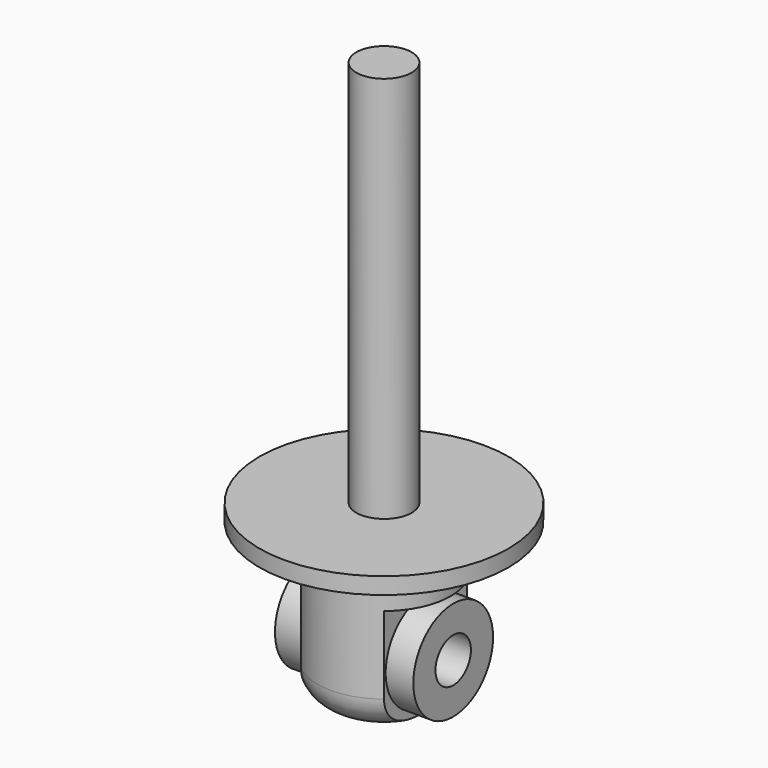
from build123d import *

# Parameters (mm, degrees)
F0_R      = 22.5
F1_DEPTH  = 3
F2_R      = 5
F3_DEPTH  = 70
F4_R      = 12
F5_DEPTH  = 28
F6_R      = 6
F7_W      = 19.57
F7_H      = 20
F8_DEPTH  = 50
F9_R      = 4
F10_DEPTH = 30.001
F12_R     = 9
F13_DEPTH = 12.5
F14_R     = 4
F15_DEPTH = 50


with BuildPart() as f1:
    # F0 (on Top) → F1 (new body)
    with BuildSketch(Plane.XY):
        Circle(F0_R)
    extrude(amount=F1_DEPTH)

    # F2 (on face) → F3 (join)
    with BuildSketch(Plane.XY.offset(3)):
        Circle(F2_R)
    extrude(amount=F3_DEPTH)

    # F4 (on face) → F5 (join)
    with BuildSketch(Plane(origin=(0, 0, 0), x_dir=(1, 0, 0), z_dir=(0, 0, -1))):
        Circle(F4_R)
    extrude(amount=F5_DEPTH)

    # F6
    f6_edges = [f1.edges().sort_by_distance(p)[0] for p in [
        (-12, 0, -28),
    ]]
    fillet(f6_edges, radius=F6_R)

    # F7 (on Front) → F8 (cut, symmetric)
    with BuildSketch(Plane.XZ):
        with Locations((17.285, -18)):
            Rectangle(F7_W, F7_H)
        with Locations((-17.285, -18)):
            Rectangle(F7_W, F7_H)
    extrude(amount=F8_DEPTH, both=True, mode=Mode.SUBTRACT)

    # F9 (on face) → F10 (cut, through all)
    with BuildSketch(Plane.YZ.offset(7.5)):
        with Locations((0, -18)):
            Circle(F9_R)
    extrude(amount=-F10_DEPTH, mode=Mode.SUBTRACT)

    # F12 (on face) → F13 (join, symmetric)
    with BuildSketch(Plane.YZ):
        with Locations((0, -18)):
            Circle(F12_R)
    extrude(amount=F13_DEPTH, both=True)

    # F14 (on face) → F15 (cut, symmetric)
    with BuildSketch(Plane.YZ.offset(12.5)):
        with Locations((0, -18)):
            Circle(F14_R)
    extrude(amount=F15_DEPTH, both=True, mode=Mode.SUBTRACT)


solid = f1.part
